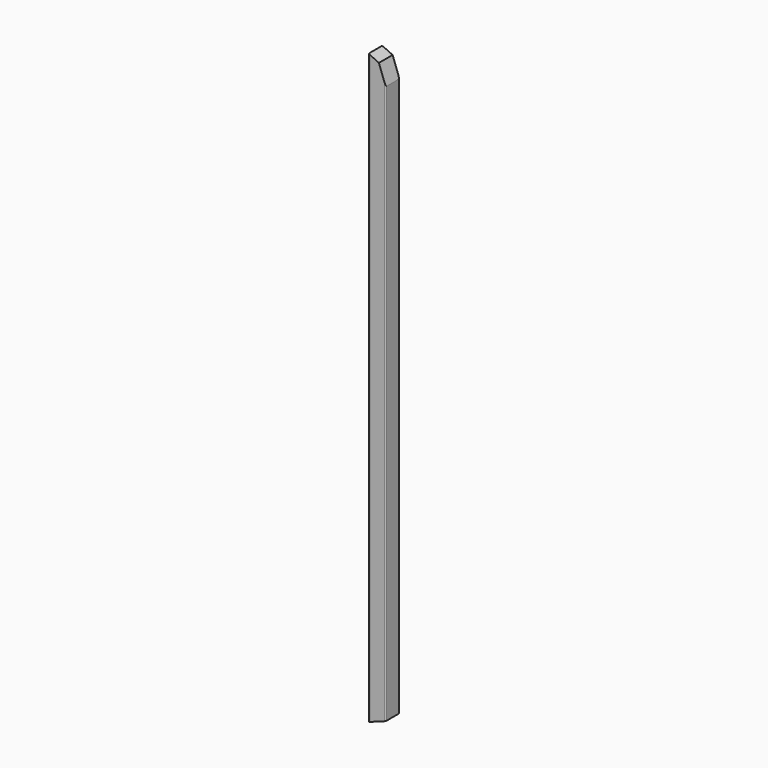
from build123d import *

# Parameters (mm, degrees)
F0_W          = 88.9
F0_H          = 88.9
F1_DEPTH      = 3048
F3_DEPTH      = 44.451
F3_DEPTH_BACK = 44.451
F5_DEPTH      = 44.451
F5_DEPTH_BACK = 44.451
F7_DEPTH      = 88.901
F8_R          = 6.35


with BuildPart() as f1:
    # F0 (on Top) → F1 (new body)
    with BuildSketch(Plane.XY):
        Rectangle(F0_W, F0_H)
    extrude(amount=F1_DEPTH)

    # F2 (on Front) → F3 (cut, two sides)
    with BuildSketch(Plane.XZ) as f3_sk:
        Polygon((44.45, 3048), (0, 3048), (44.45, 2925.8746287052), align=None)
    extrude(amount=F3_DEPTH, mode=Mode.SUBTRACT)
    extrude(f3_sk.sketch, amount=-F3_DEPTH_BACK, mode=Mode.SUBTRACT)

    # F4 (on Front) → F5 (cut, two sides)
    with BuildSketch(Plane.XZ) as f5_sk:
        Polygon((44.45, 0), (44.45, 32.3569538263), (-44.45, 0), align=None)
    extrude(amount=-F5_DEPTH, mode=Mode.SUBTRACT)
    extrude(f5_sk.sketch, amount=F5_DEPTH_BACK, mode=Mode.SUBTRACT)

    # F6 (on face) → F7 (cut, through all)
    with BuildSketch(Plane.XZ.offset(44.45)):
        Polygon((0, 3048), (-44.45, 3048), (9.0862923736, 3023.035616877), align=None)
    extrude(amount=-F7_DEPTH, mode=Mode.SUBTRACT)

    # F8
    f8_edges = [f1.edges().sort_by_distance(p)[0] for p in [
        (-44.45, -44.45, 1524),
        (44.45, -44.45, 1479.115791),
        (44.45, 44.45, 1479.115791),
        (-44.45, 44.45, 1524),
    ]]
    fillet(f8_edges, radius=F8_R)


solid = f1.part
